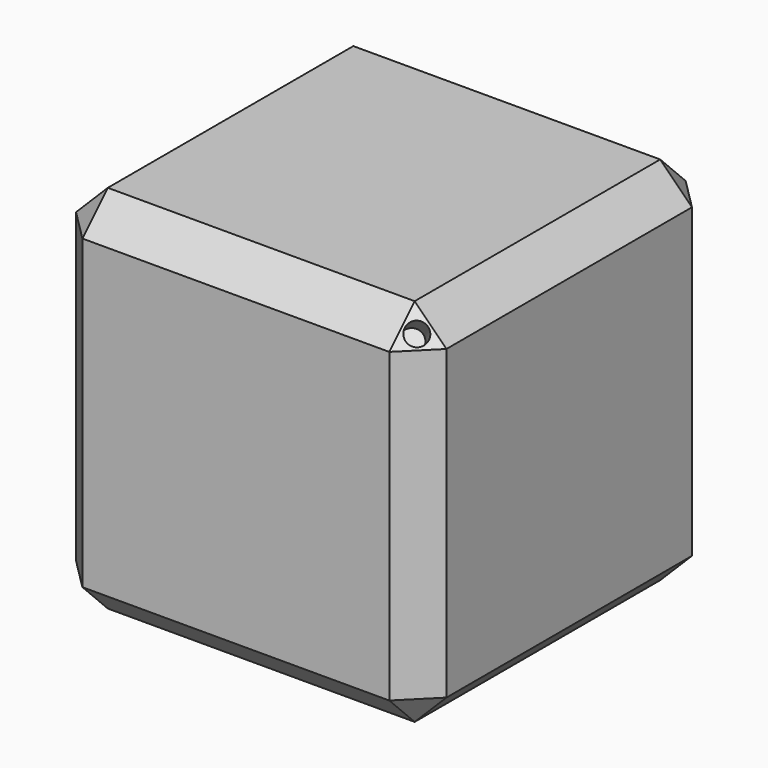
from build123d import *

# Parameters (mm, degrees)
F0_W     = 111.125
F0_H     = 111.125
F1_DEPTH = 55.5625
F2_SIZE  = 9.525
F3_R     = 3.175
F4_DEPTH = 12.7


with BuildPart() as f1:
    # F0 (on Top) → F1 (new body, symmetric)
    with BuildSketch(Plane.XY):
        Rectangle(F0_W, F0_H)
    extrude(amount=F1_DEPTH, both=True)

    # F2
    f2_edges = [f1.edges().sort_by_distance(p)[0] for p in [
        (-55.5625, 0, 55.5625),
        (-55.5625, 55.5625, 0),
        (-55.5625, -55.5625, 0),
        (-55.5625, 0, -55.5625),
        (0, -55.5625, -55.5625),
        (0, 55.5625, -55.5625),
        (0, 55.5625, 55.5625),
        (0, -55.5625, 55.5625),
        (55.5625, 0, 55.5625),
        (55.5625, -55.5625, 0),
        (55.5625, 0, -55.5625),
        (55.5625, 55.5625, 0),
    ]]
    chamfer(f2_edges, length=F2_SIZE)

    # F3 (on face) → F4 (cut)
    with BuildSketch(Plane(origin=(49.2125, -49.2125, 49.2125), x_dir=(0.816497, 0.408248, -0.408248), z_dir=(0.57735, -0.57735, 0.57735))):
        Circle(F3_R)
    extrude(amount=-F4_DEPTH, mode=Mode.SUBTRACT)


solid = f1.part
